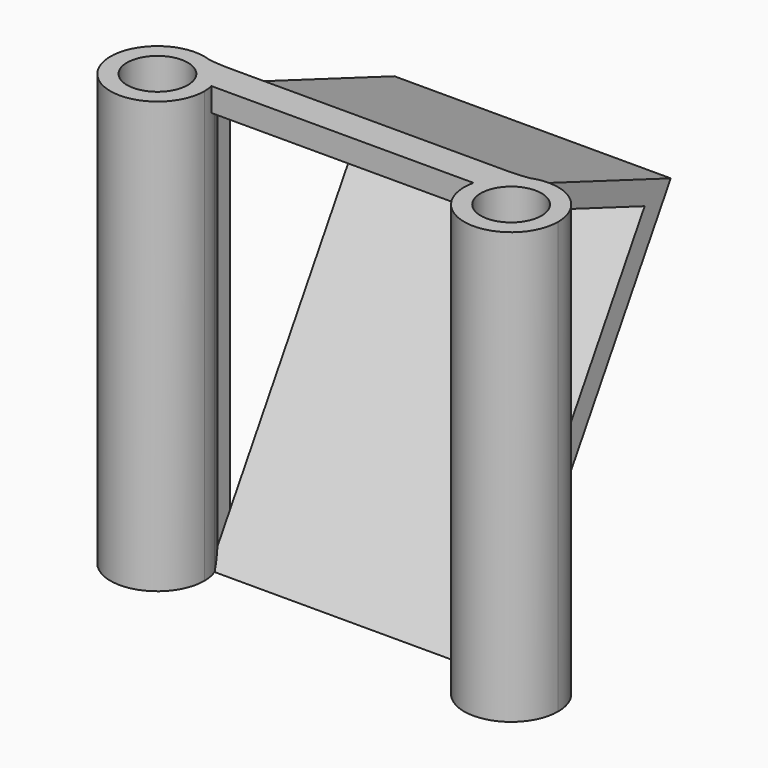
from build123d import *

# Parameters (mm, degrees)
F1_DEPTH = 25
F2_R     = 2.75
F3_DEPTH = 39
F6_DEPTH = 39
F7_DEPTH = 25
F8_DEPTH = 1.4888694367


with BuildPart() as f1:
    # F0 (on Right) → F1 (new body)
    with BuildSketch(Plane.YZ):
        Polygon((18.5510310847, 29.8126723238), (0.5779567464, 0), (2.9132927302, 0), (21.5006141558, 30.8315490499), (0, 39), (0, 36.8605262312), align=None)
    extrude(amount=F1_DEPTH)

    # F2 (on face) → F3 (join)
    with BuildSketch(Plane(origin=(0, 0, 0), x_dir=(1, 0, 0), z_dir=(0, 0, -1))):
        with BuildLine():
            ThreePointArc((0.4764934301, -0.5779567464), (0.6810642831, 0.1596775533), (0.75, 0.9220432536))
            ThreePointArc((0.75, 0.9220432536), (-7.5581707702, 2.1844813709), (0, -1.4888694367))
            Line((0, -1.4888694367), (0, -0.5779567464))
            Line((0, -0.5779567464), (0.4764934301, -0.5779567464))
        make_face()
        with Locations((-3.5, 0.9220432536)):
            Circle(F2_R, mode=Mode.SUBTRACT)
        with BuildLine():
            Line((0, -0.5779567464), (0, -1.4888694367))
            ThreePointArc((0, -1.4888694367), (0.2658901982, -1.0478732459), (0.4764934301, -0.5779567464))
            Line((0.4764934301, -0.5779567464), (0, -0.5779567464))
        make_face()
        with BuildLine():
            ThreePointArc((32.75, 0.9220432536), (27.7376342997, 5.1031075366), (24.5235065699, -0.5779567464))
            Line((24.5235065699, -0.5779567464), (25, -0.5779567464))
            Line((25, -0.5779567464), (25, -1.4888694367))
            ThreePointArc((25, -1.4888694367), (29.7624381173, -3.1361275166), (32.75, 0.9220432536))
        make_face()
        with Locations((28.5, 0.9220432536)):
            Circle(F2_R, mode=Mode.SUBTRACT)
        with BuildLine():
            Line((25, -0.5779567464), (24.5235065699, -0.5779567464))
            ThreePointArc((24.5235065699, -0.5779567464), (24.7341098018, -1.0478732459), (25, -1.4888694367))
            Line((25, -1.4888694367), (25, -0.5779567464))
        make_face()
    extrude(amount=-F3_DEPTH)

    # F5 (on face) → F6 (join, through all)
    with BuildSketch(Plane(origin=(0, 0, 0), x_dir=(1, 0, 0), z_dir=(0, 0, -1))):
        with BuildLine():
            ThreePointArc((-2.0012357145, -3.0549160895), (-1.0031203269, -2.9487427884), (0, -2.9132927302))
            Line((0, -2.9132927302), (0, -1.4888694367))
            ThreePointArc((0, -1.4888694367), (-0.8808328375, -2.4249648693), (-2.0012357145, -3.0549160895))
        make_face()
        with BuildLine():
            Line((25, -1.4888694367), (25, -2.9132927302))
            ThreePointArc((25, -2.9132927302), (26.0031203269, -2.9487427884), (27.0012357145, -3.0549160895))
            ThreePointArc((27.0012357145, -3.0549160895), (25.8808328375, -2.4249648693), (25, -1.4888694367))
        make_face()
    extrude(amount=-F6_DEPTH)

    # F7 (add): a face of the model
    f7_faces = [f1.faces().sort_by_distance(p)[0] for p in [
        (0, 2.2778987033, 38.5672936668),
    ]]
    extrude(f7_faces, amount=F7_DEPTH)

    # F8 (add, through all): a face of the model
    f8_faces = [f1.faces().sort_by_distance(p)[0] for p in [
        (12.5, 1.4888694367, 38.7171765216),
    ]]
    extrude(f8_faces, amount=F8_DEPTH)


solid = f1.part
